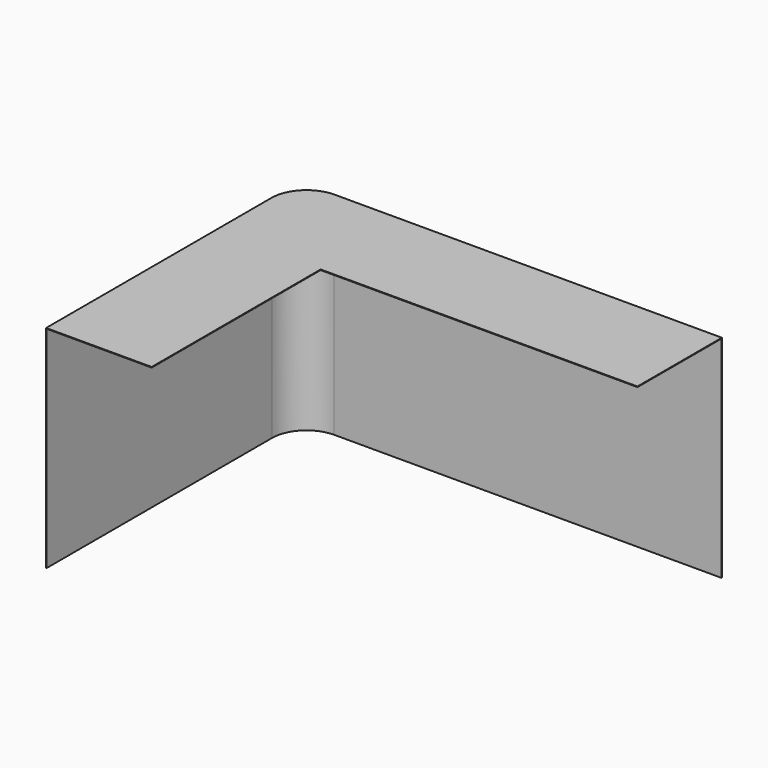
from build123d import *

# Parameters (mm, degrees)
F0_W     = 457.2
F0_H     = 914.4
F1_DEPTH = 914.4
F2_T     = -2.54


with BuildPart() as f1:
    # F0 (on Top) → F1 (new body)
    with BuildSketch(Plane.XY):
        with BuildLine():
            Line((682.751235, 631.639176), (-993.959226, 631.639176))
            ThreePointArc((-993.959226, 631.639176), (-1101.50277, 587.093182), (-1146.048765, 479.549638))
            Line((-1146.048765, 479.549638), (-1146.048765, 174.439176))
            Line((-1146.048765, 174.439176), (-688.848765, 174.439176))
            Line((-688.848765, 174.439176), (682.751235, 174.439176))
            Line((682.751235, 174.439176), (682.751235, 631.639176))
        make_face()
        with Locations((-917.448765, -282.760824)):
            Rectangle(F0_W, F0_H)
    extrude(amount=F1_DEPTH)

    # F2
    f2_openings = [f1.faces().sort_by_distance(p)[0] for p in [
        (-3.048765, 174.439176, 457.2),
        (682.751235, 403.039176, 457.2),
        (-917.448765, -739.960824, 457.2),
        (-688.848765, -282.760824, 457.2),
        (659.891235, 403.039176, 0),
    ]]
    offset(amount=F2_T, openings=f2_openings)


solid = f1.part
